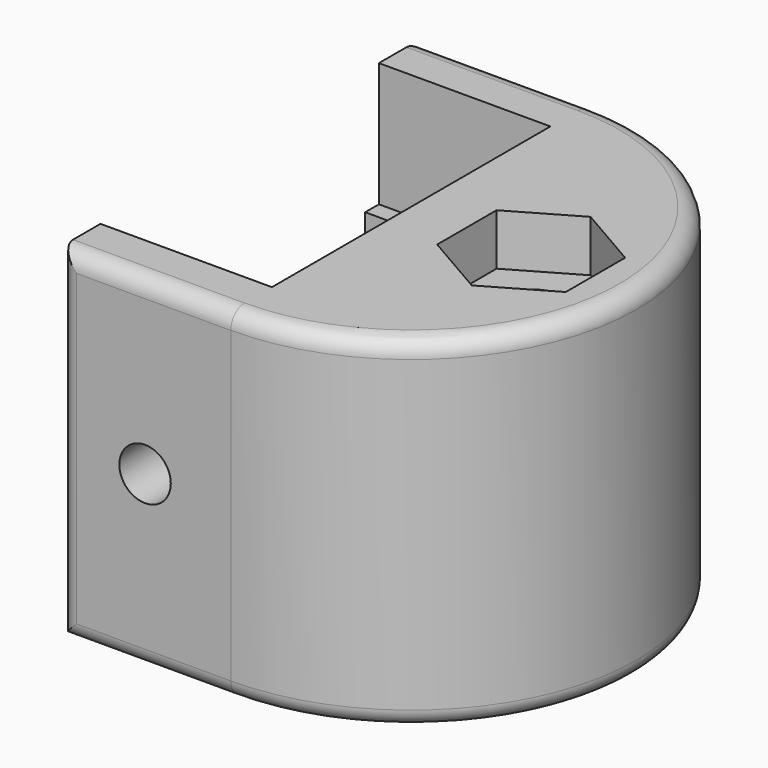
from build123d import *

# Parameters (mm, degrees)
F0_R     = 2
F1_DEPTH = 20
F2_W     = 1
F2_H     = 5.5
F3_DEPTH = 10
F4_R     = 1.5
F5_DEPTH = 26.301
F6_SIZE  = 0.5
F7_R     = 1
F9_DEPTH = 3


with BuildPart() as f1:
    # F0 (on Top) → F1 (new body)
    with BuildSketch(Plane.XY):
        with BuildLine():
            Line((0, 3), (0, 0))
            Line((0, 0), (10, 0))
            ThreePointArc((10, 0), (23.15, 13.15), (10, 26.3))
            Line((10, 26.3), (0, 26.3))
            Line((0, 26.3), (0, 23.3))
            Line((0, 23.3), (10, 23.3))
            Line((10, 23.3), (10, 3))
            Line((10, 3), (0, 3))
        make_face()
        with Locations((17, 13.15)):
            Circle(F0_R, mode=Mode.SUBTRACT)
    extrude(amount=F1_DEPTH)

    # F2 (on face) → F3 (join, through all)
    with BuildSketch(Plane(origin=(10, 0, 0), x_dir=(0, -1, 0), z_dir=(-1, 0, 0))):
        with Locations((-22.8, 10)):
            Rectangle(F2_W, F2_H)
        with Locations((-3.5, 10)):
            Rectangle(F2_W, F2_H)
    extrude(amount=F3_DEPTH)

    # F4 (on face) → F5 (cut, through all)
    with BuildSketch(Plane.XZ):
        with Locations((5, 10)):
            Circle(F4_R)
    extrude(amount=-F5_DEPTH, mode=Mode.SUBTRACT)

    # F6
    f6_edges = [f1.edges().sort_by_distance(p)[0] for p in [
        (15, 13.15, 0),
    ]]
    chamfer(f6_edges, length=F6_SIZE)

    # F7
    f7_edges = [f1.edges().sort_by_distance(p)[0] for p in [
        (23.15, 13.15, 20),
        (23.15, 13.15, 0),
        (0, 0, 10),
        (0, 26.3, 10),
    ]]
    fillet(f7_edges, radius=F7_R)

    # F8 (on face) → F9 (cut)
    with BuildSketch(Plane.XY.offset(20)):
        Polygon((20.75, 10.984936), (20.75, 15.315064), (17, 17.480127), (13.25, 15.315064), (13.25, 10.984936), (17, 8.819873), align=None)
    extrude(amount=-F9_DEPTH, mode=Mode.SUBTRACT)


solid = f1.part
